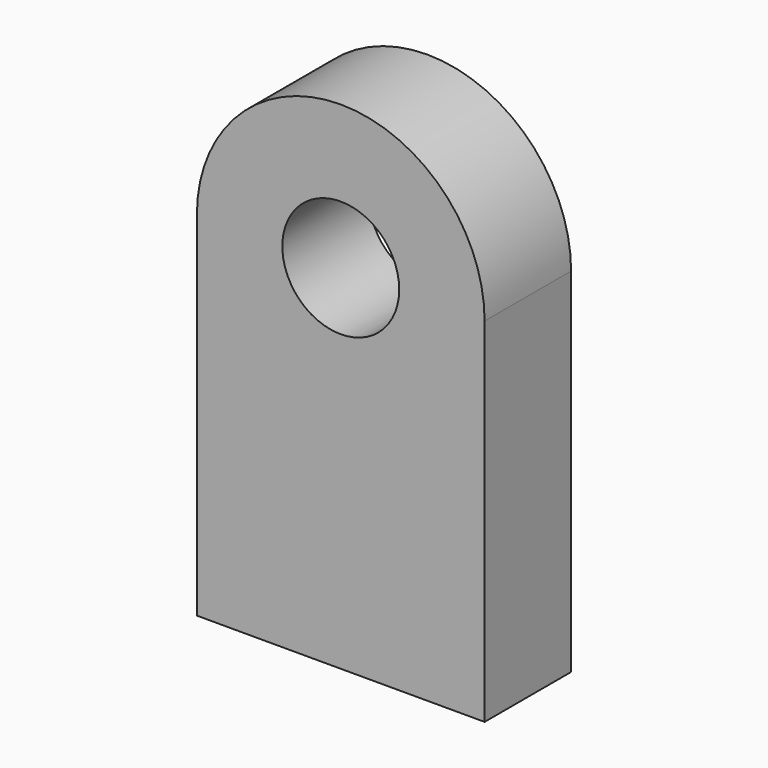
from build123d import *

# Parameters (mm, degrees)
F0_R     = 13.728155
F1_DEPTH = 25.4


with BuildPart() as f1:
    # F0 (on Front) → F1 (new body)
    with BuildSketch(Plane.XZ):
        with BuildLine():
            Line((-33.788983, -39.80808), (33.788987, -39.80808))
            Line((33.788987, -39.80808), (33.788987, 43.091211))
            ThreePointArc((33.788987, 43.091211), (2e-06, 76.880196), (-33.788983, 43.091211))
            Line((-33.788983, 43.091211), (-33.788983, -39.80808))
        make_face()
        with Locations((2e-06, 43.091211)):
            Circle(F0_R, mode=Mode.SUBTRACT)
    extrude(amount=F1_DEPTH)


solid = f1.part
